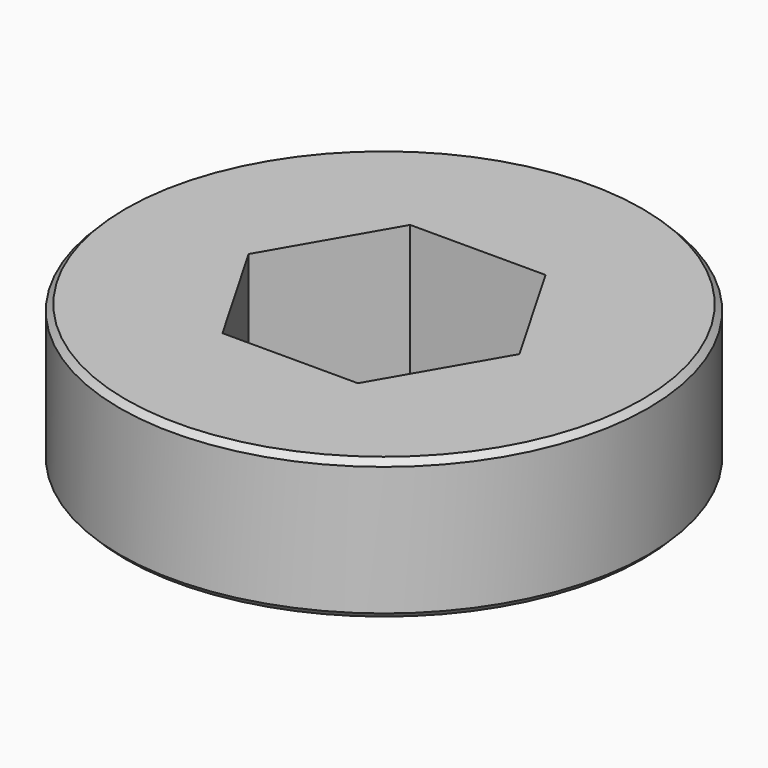
from build123d import *

# Parameters (mm, degrees)
F0_R     = 14.3002
F1_DEPTH = 3.81
F2_SIZE  = 0.3175


with BuildPart() as f1:
    # F0 (on Top) → F1 (new body, symmetric)
    with BuildSketch(Plane.XY):
        Circle(F0_R)
        Polygon((-3.6661742094, 6.35), (3.6661742094, 6.35), (7.3323484187, 0), (3.6661742094, -6.35), (-3.6661742094, -6.35), (-7.3323484187, 0), align=None, mode=Mode.SUBTRACT)
    extrude(amount=F1_DEPTH, both=True)

    # F2
    f2_edges = [f1.edges().sort_by_distance(p)[0] for p in [
        (-14.3002, 0, 3.81),
        (-14.3002, 0, -3.81),
    ]]
    chamfer(f2_edges, length=F2_SIZE)


solid = f1.part
